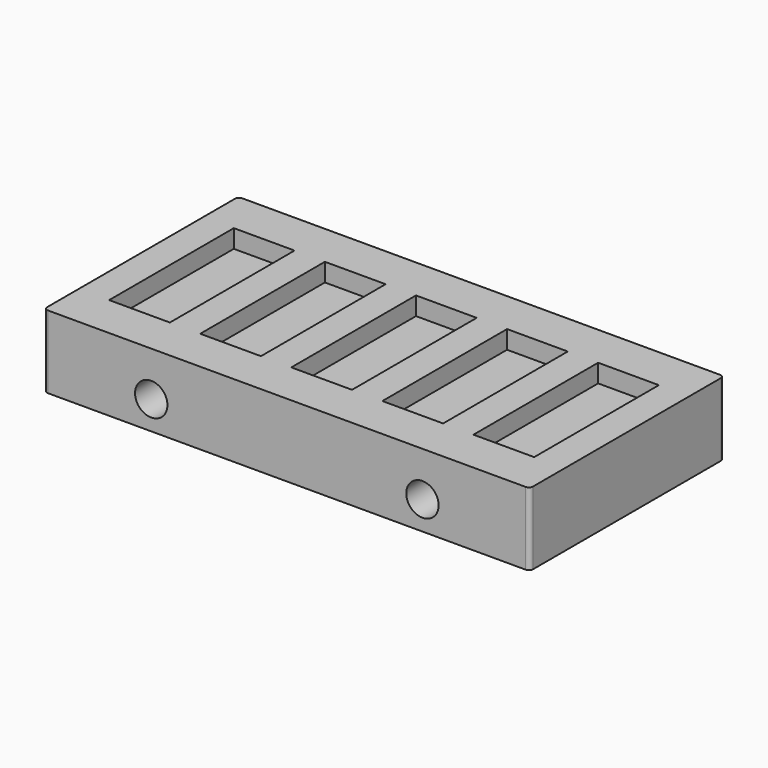
from build123d import *

# Parameters (mm, degrees)
F0_W     = 24
F0_H     = 12
F0_W_2   = 1.5
F0_H_2   = 7.7
F1_DEPTH = 0.9
F2_W     = 24
F2_H     = 12
F3_DEPTH = 2.7
F4_R     = 1.6
F5_DEPTH = 1.2
F6_R     = 0.2
F7_R     = 0.8
F8_DEPTH = 5


with BuildPart() as f1:
    # F0 (on Top) → F1 (new body)
    with BuildSketch(Plane.XY):
        Rectangle(F0_W, F0_H)
        Polygon((-10.5, -3.85), (-10.5, 3.85), (-7.5, 3.85), (-6, 3.85), (-3, 3.85), (-1.5, 3.85), (1.5, 3.85), (3, 3.85), (6, 3.85), (7.5, 3.85), (10.5, 3.85), (10.5, -3.85), (7.5, -3.85), (6, -3.85), (3, -3.85), (1.5, -3.85), (-1.5, -3.85), (-3, -3.85), (-6, -3.85), (-7.5, -3.85), align=None, mode=Mode.SUBTRACT)
        with Locations((-6.75, 0)):
            Rectangle(F0_W_2, F0_H_2)
        with Locations((-2.25, 0)):
            Rectangle(F0_W_2, F0_H_2)
        with Locations((2.25, 0)):
            Rectangle(F0_W_2, F0_H_2)
        with Locations((6.75, 0)):
            Rectangle(F0_W_2, F0_H_2)
    extrude(amount=F1_DEPTH)

    # F2 (on face) → F3 (join)
    with BuildSketch(Plane(origin=(0, 0, 0), x_dir=(1, 0, 0), z_dir=(0, 0, -1))):
        Rectangle(F2_W, F2_H)
    extrude(amount=F3_DEPTH)

    # F4 (on face) → F5 (cut)
    with BuildSketch(Plane(origin=(0, 0, -2.7), x_dir=(1, 0, 0), z_dir=(0, 0, -1))):
        Circle(F4_R)
        with Locations((9, 0)):
            Circle(F4_R)
        with Locations((-9, 0)):
            Circle(F4_R)
    extrude(amount=-F5_DEPTH, mode=Mode.SUBTRACT)

    # F6
    f6_edges = [f1.edges().sort_by_distance(p)[0] for p in [
        (-12, -6, -0.9),
        (12, -6, -0.9),
        (12, 6, -0.9),
        (-12, 6, -0.9),
    ]]
    fillet(f6_edges, radius=F6_R)

    # F7 (on face) → F8 (cut)
    with BuildSketch(Plane.XZ.offset(6)):
        with Locations((-6.7, -1.3)):
            Circle(F7_R)
        with Locations((6.7, -1.3)):
            Circle(F7_R)
    extrude(amount=-F8_DEPTH, mode=Mode.SUBTRACT)


solid = f1.part
